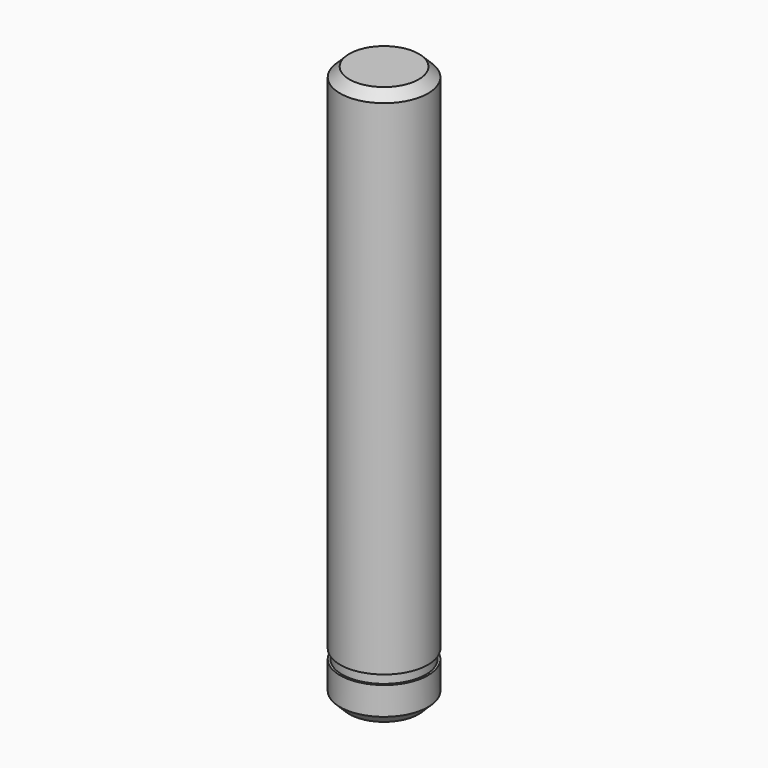
from build123d import *

# Parameters (mm, degrees)
F0_R     = 6
F1_DEPTH = 76.2
F3_R     = 6
F3_R_2   = 5.715
F4_DEPTH = 1.27
F5_SIZE  = 1.27


with BuildPart() as f1:
    # F0 (on Top) → F1 (new body)
    with BuildSketch(Plane.XY):
        Circle(F0_R)
    extrude(amount=F1_DEPTH)

    # F3 (on offset) → F4 (cut)
    with BuildSketch(Plane(origin=(0, 0, 6.35), x_dir=(1, 0, 0), z_dir=(0, 0, -1))):
        Circle(F3_R)
        Circle(F3_R_2, mode=Mode.SUBTRACT)
    extrude(amount=F4_DEPTH, mode=Mode.SUBTRACT)

    # F5
    f5_edges = [f1.edges().sort_by_distance(p)[0] for p in [
        (-6, 0, 0),
        (-6, 0, 76.2),
    ]]
    chamfer(f5_edges, length=F5_SIZE)


solid = f1.part
